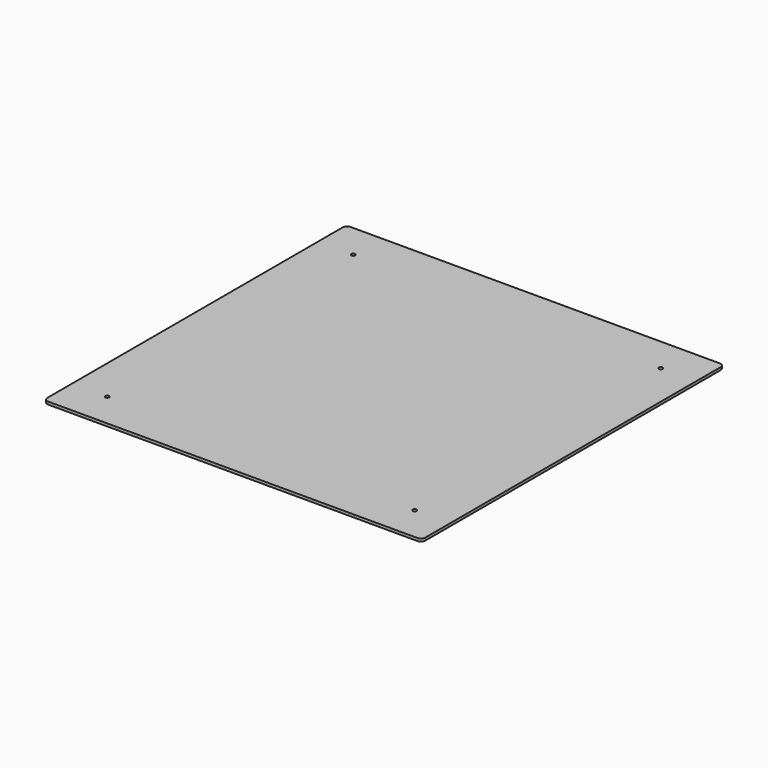
from build123d import *

# Parameters (mm, degrees)
SKETCH_R  = 2.1
PAD_DEPTH = 3


with BuildPart() as part:
    # Sketch → Pad (new body)
    with BuildSketch(Plane.XY):
        with BuildLine():
            Line((-204, 209), (204, 209))
            ThreePointArc((209, 204), (207.535534, 207.535534), (204, 209))
            Line((209, 204), (209, -204))
            ThreePointArc((204, -209), (207.535534, -207.535534), (209, -204))
            Line((204, -209), (-204, -209))
            ThreePointArc((-209, -204), (-207.535534, -207.535534), (-204, -209))
            Line((-209, -204), (-209, 204))
            ThreePointArc((-204, 209), (-207.535534, 207.535534), (-209, 204))
        make_face()
        with Locations((-170, 170)):
            Circle(SKETCH_R, mode=Mode.SUBTRACT)
        with Locations((170, 170)):
            Circle(SKETCH_R, mode=Mode.SUBTRACT)
        with Locations((170, -170)):
            Circle(SKETCH_R, mode=Mode.SUBTRACT)
        with Locations((-170, -170)):
            Circle(SKETCH_R, mode=Mode.SUBTRACT)
    extrude(amount=PAD_DEPTH)


solid = part.part
